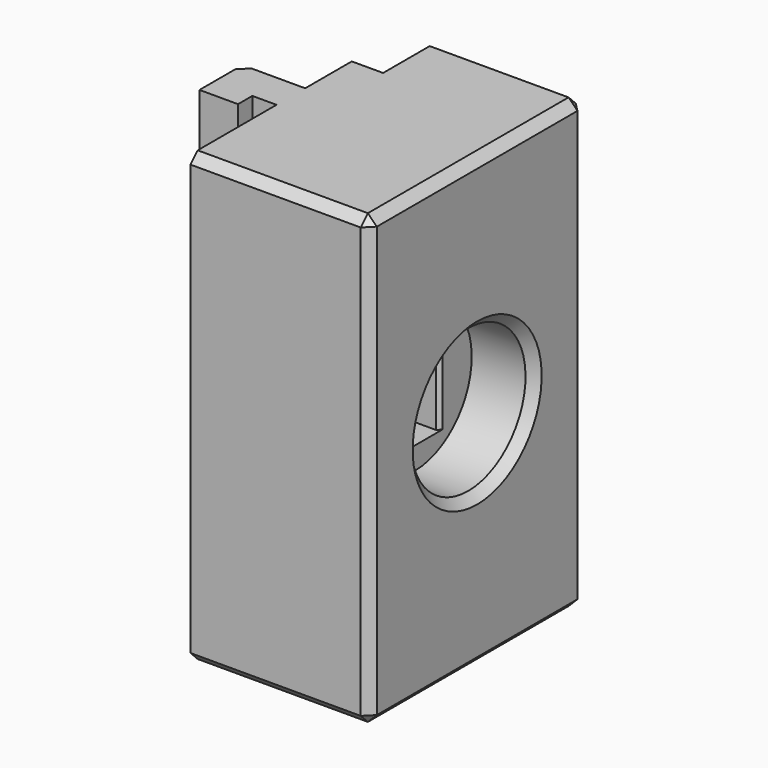
from build123d import *

# Parameters (mm, degrees)
BOX016_W                    = 20
BOX016_H                    = 10
BOX016_DEPTH                = 14
BOX014_W                    = 4.3
BOX014_H                    = 4
BOX014_DEPTH                = 50
BOX013_W                    = 7
BOX013_H                    = 4
BOX013_DEPTH                = 50
CHAMFER017_SIZE             = 1
CYLINDER023_R               = 8
CYLINDER023_DEPTH           = 10
CYLINDER023_PLACEMENT_ANGLE = 89.98
BOX017_W                    = 20
BOX017_H                    = 7
BOX017_DEPTH                = 11
BOX015_W                    = 3.5
BOX015_H                    = 7.5
BOX015_DEPTH                = 50
CYLINDER021_R               = 2.6
CYLINDER021_DEPTH           = 110
CYLINDER021_PLACEMENT_ANGLE = 89.98
CYLINDER022_R               = 2.6
CYLINDER022_DEPTH           = 110
CYLINDER022_PLACEMENT_ANGLE = 89.98
BOX012_W                    = 20
BOX012_H                    = 30
BOX012_DEPTH                = 50
CHAMFER005_SIZE             = 1
CHAMFER007_SIZE             = 0.4
CHAMFER008_SIZE             = 1
CHAMFER018_SIZE             = 1


with BuildPart() as cube016:
    # Box016 → Box016 (new body)
    with BuildSketch(Plane(origin=(-12, -125, 18), x_dir=(1, 0, 0), z_dir=(0, 0, 1))):
        with Locations((10, 5)):
            Rectangle(BOX016_W, BOX016_H)
    extrude(amount=BOX016_DEPTH)


with BuildPart() as cube014:
    # Box014 → Box014 (new body)
    with BuildSketch(Plane(origin=(-7, -125, 0), x_dir=(1, 0, 0), z_dir=(0, 0, 1))):
        with Locations((2.15, 2)):
            Rectangle(BOX014_W, BOX014_H)
    extrude(amount=BOX014_DEPTH)


with BuildPart() as cut035:
    # Box013 → Box013 (new body)
    with BuildSketch(Plane(origin=(-7, -123, 0), x_dir=(1, 0, 0), z_dir=(0, 0, 1))):
        with Locations((3.5, 2)):
            Rectangle(BOX013_W, BOX013_H)
    extrude(amount=BOX013_DEPTH)

    # Chamfer017
    chamfer017_edges = [cut035.edges().sort_by_distance(p)[0] for p in [
        (-7, -119, 25),
    ]]
    chamfer(chamfer017_edges, length=CHAMFER017_SIZE)

    # Fusion: union Cube014
    add(cube014.part)

    # Cut035: cut Cube016
    add(cube016.part, mode=Mode.SUBTRACT)


with BuildPart() as cylinder023:
    # Cylinder023 → Cylinder023 (new body)
    with BuildSketch(Plane.XY):
        Circle(CYLINDER023_R)
    extrude(amount=CYLINDER023_DEPTH)


with BuildPart() as cylinder023_1:
    # Cylinder023 placement: moved
    add(cylinder023.part.moved(Location((12.991273, -120, 25.004536))).rotate(Axis((12.991273, -120, 25.004536), (0, 1, 0)), CYLINDER023_PLACEMENT_ANGLE))


with BuildPart() as cube017:
    # Box017 → Box017 (new body)
    with BuildSketch(Plane(origin=(0, -123.5, 19.5), x_dir=(1, 0, 0), z_dir=(0, 0, 1))):
        with Locations((10, 3.5)):
            Rectangle(BOX017_W, BOX017_H)
    extrude(amount=BOX017_DEPTH)


with BuildPart() as cube015:
    # Box015 → Box015 (new body)
    with BuildSketch(Plane(origin=(0, -112.5, 0), x_dir=(1, 0, 0), z_dir=(0, 0, 1))):
        with Locations((1.75, 3.75)):
            Rectangle(BOX015_W, BOX015_H)
    extrude(amount=BOX015_DEPTH)


with BuildPart() as cylinder021:
    # Cylinder021 → Cylinder021 (new body)
    with BuildSketch(Plane.XY):
        Circle(CYLINDER021_R)
    extrude(amount=CYLINDER021_DEPTH)


with BuildPart() as cylinder021_1:
    # Cylinder021 placement: moved
    add(cylinder021.part.moved(Location((12.5, 5.00349, 9.998254))).rotate(Axis((12.5, 5.00349, 9.998254), (1, 0, 0)), CYLINDER021_PLACEMENT_ANGLE))


with BuildPart() as fusion003005:
    # Cylinder022 → Cylinder022 (new body)
    with BuildSketch(Plane.XY):
        Circle(CYLINDER022_R)
    extrude(amount=CYLINDER022_DEPTH)


with BuildPart() as fusion003005_1:
    # Cylinder022 placement: moved
    add(fusion003005.part.moved(Location((12.5, 5.013962, 39.998252))).rotate(Axis((12.5, 5.013962, 39.998252), (1, 0, 0)), CYLINDER022_PLACEMENT_ANGLE))

    # Fusion003005: union Cylinder021
    add(cylinder021_1.part)


with BuildPart() as fusion003005_2:
    # Fusion003005 placement: moved
    add(fusion003005_1.part.moved(Location((0, -20, 0))))


with BuildPart() as spool_bottom:
    # Box012 → Box012 (new body)
    with BuildSketch(Plane(origin=(0, -135, 0), x_dir=(1, 0, 0), z_dir=(0, 0, 1))):
        with Locations((10, 15)):
            Rectangle(BOX012_W, BOX012_H)
    extrude(amount=BOX012_DEPTH)

    # Cut019: cut Fusion003005
    add(fusion003005_2.part, mode=Mode.SUBTRACT)

    # Chamfer005
    chamfer005_edges = [spool_bottom.edges().sort_by_distance(p)[0] for p in [
        (10, -135, 0),
        (20, -135, 25),
        (10, -135, 50),
        (10, -105, 50),
        (20, -120, 50),
        (10, -105, 0),
        (20, -105, 25),
        (20, -120, 0),
    ]]
    chamfer(chamfer005_edges, length=CHAMFER005_SIZE)

    # Cut020: cut Cube015
    add(cube015.part, mode=Mode.SUBTRACT)

    # Cut021: cut Cube017
    add(cube017.part, mode=Mode.SUBTRACT)

    # Cut022: cut Cylinder023
    add(cylinder023_1.part, mode=Mode.SUBTRACT)

    # Chamfer007
    chamfer007_edges = [spool_bottom.edges().sort_by_distance(p)[0] for p in [
        (12.991274, -123.5, 25),
        (12.991274, -116.5, 25),
    ]]
    chamfer(chamfer007_edges, length=CHAMFER007_SIZE)

    # Chamfer008
    chamfer008_edges = [spool_bottom.edges().sort_by_distance(p)[0] for p in [
        (20, -120, 33.006983),
    ]]
    chamfer(chamfer008_edges, length=CHAMFER008_SIZE)

    # Fusion003010: union Cut035
    add(cut035.part)

    # Chamfer018
    chamfer018_edges = [spool_bottom.edges().sort_by_distance(p)[0] for p in [
        (9.9, -105, 40.029673),
        (9.9, -105, 10.029671),
    ]]
    chamfer(chamfer018_edges, length=CHAMFER018_SIZE)


solid = spool_bottom.part
